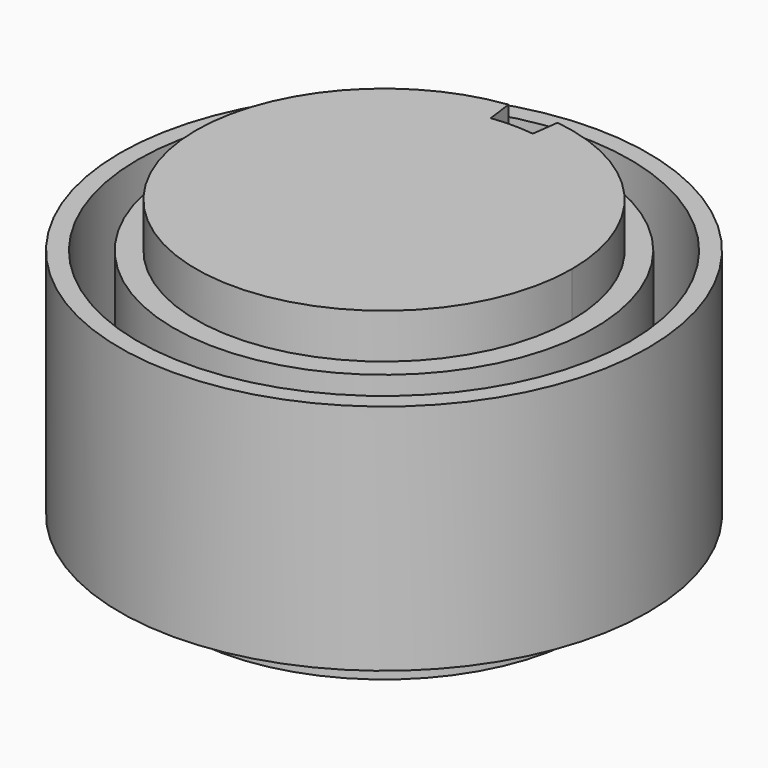
from build123d import *

# Parameters (mm, degrees)
F0_R      = 22.5
F0_R_2    = 22
F0_R_3    = 20.5
F1_DEPTH  = 1
F2_START  = 1
F0_R_4    = 15
F2_DEPTH  = 2.5
F3_START  = 3.5
F3_DEPTH  = 1
F4_START  = 4.5
F0_R_5    = 29.5
F0_R_6    = 27.5
F4_DEPTH  = 1.5
F5_DEPTH  = 2
F6_START  = 6
F6_DEPTH  = 24.5
F7_R      = 0.5
F10_DEPTH = 25
F11_ANGLE = -90


with BuildPart() as f1:
    # F0 (on Top) → F1 (new body)
    with BuildSketch(Plane.XY):
        Circle(F0_R)
        Circle(F0_R_2, mode=Mode.SUBTRACT)
        Circle(F0_R_2)
        Circle(F0_R_3, mode=Mode.SUBTRACT)
    extrude(amount=F1_DEPTH)

    # F0 (on Top) → F2 (join)
    with BuildSketch(Plane.XY.offset(F2_START)):
        Circle(F0_R_2)
        Circle(F0_R_3, mode=Mode.SUBTRACT)
        Circle(F0_R_3)
        Circle(F0_R_4, mode=Mode.SUBTRACT)
    extrude(amount=F2_DEPTH)

    # F0 (on Top) → F3 (join)
    with BuildSketch(Plane.XY.offset(F3_START)):
        Circle(F0_R)
        Circle(F0_R_2, mode=Mode.SUBTRACT)
        Circle(F0_R_2)
        Circle(F0_R_3, mode=Mode.SUBTRACT)
    extrude(amount=F3_DEPTH)

    # F0 (on Top) → F4 (join)
    with BuildSketch(Plane.XY.offset(F4_START)):
        Circle(F0_R_5)
        Circle(F0_R_6, mode=Mode.SUBTRACT)
        Circle(F0_R_6)
        Circle(F0_R, mode=Mode.SUBTRACT)
        Circle(F0_R)
        Circle(F0_R_2, mode=Mode.SUBTRACT)
        Circle(F0_R_2)
        Circle(F0_R_3, mode=Mode.SUBTRACT)
    extrude(amount=F4_DEPTH)

    # F0 (on Top) → F5 (join)
    with BuildSketch(Plane.XY):
        Circle(F0_R_4)
        with BuildLine():
            ThreePointArc((-9.2351334065, 8.4239130435), (-8.9001091605, 8.6648532788), (-8.496322734, 8.75))
            Line((-8.496322734, 8.75), (8.496322734, 8.75))
            ThreePointArc((8.496322734, 8.75), (8.9001091605, 8.6648532788), (9.2351334065, 8.4239130435))
            ThreePointArc((9.2351334065, 8.4239130435), (12.5, 0), (9.2351334065, -8.4239130435))
            ThreePointArc((9.2351334065, -8.4239130435), (8.9001091605, -8.6648532788), (8.496322734, -8.75))
            Line((8.496322734, -8.75), (-8.496322734, -8.75))
            ThreePointArc((-8.496322734, -8.75), (-8.9001091605, -8.6648532788), (-9.2351334065, -8.4239130435))
            ThreePointArc((-9.2351334065, -8.4239130435), (-12.5, 0), (-9.2351334065, 8.4239130435))
        make_face(mode=Mode.SUBTRACT)
    extrude(amount=F5_DEPTH)

    # F0 (on Top) → F6 (join)
    with BuildSketch(Plane.XY.offset(F6_START)):
        Circle(F0_R_5)
        Circle(F0_R_6, mode=Mode.SUBTRACT)
    extrude(amount=F6_DEPTH)

    # F7
    f7_edges = [f1.edges().sort_by_distance(p)[0] for p in [
        (-15, 0, 3.5),
    ]]
    fillet(f7_edges, radius=F7_R)


with BuildPart() as f9:
    # F8 (on Top) → F9 (revolve)
    with BuildSketch(Plane.XY):
        Polygon((-21, 0), (-23.5, 0), (-23.5, -2), (-22.5, -2), (-22.5, -4), (-23.5, -4), (-23.5, -20), (-21, -20), align=None)
    revolve(axis=Axis((0, -7.9863984138, 0), (0, 1, 0)))


with BuildPart() as f10:
    # F8 (on Top) → F10 (new body)
    with BuildSketch(Plane.XY):
        with BuildLine():
            ThreePointArc((-2.7410500366, 20.8203420888), (-15.7886359571, 13.8462621171), (-21, 0))
            Line((-21, 0), (-18, 0))
            ThreePointArc((-18, 0), (-13.5331165346, 11.8682246718), (-2.34947146, 17.8460075047))
            Line((-2.34947146, 17.8460075047), (-2.7410500366, 20.8203420889))
        make_face()
        with BuildLine():
            ThreePointArc((-2.34947146, 17.8460075047), (-13.5331165346, 11.8682246718), (-18, 0))
            Line((-18, 0), (0, 0))
            Line((0, 0), (-2.34947146, 17.8460075047))
        make_face()
        with BuildLine():
            Line((2.34947146, 17.8460075047), (0, 0))
            Line((0, 0), (18, 0))
            ThreePointArc((18, 0), (13.5331165346, 11.8682246718), (2.34947146, 17.8460075047))
        make_face()
        with BuildLine():
            ThreePointArc((2.34947146, 17.8460075047), (13.5331165346, 11.8682246718), (18, 0))
            Line((18, 0), (21, 0))
            ThreePointArc((21, 0), (15.7886359571, 13.8462621171), (2.7410500366, 20.8203420888))
            Line((2.7410500366, 20.8203420889), (2.34947146, 17.8460075047))
        make_face()
        with BuildLine():
            Line((-2.34947146, 17.8460075047), (0, 0))
            Line((0, 0), (2.34947146, 17.8460075047))
            ThreePointArc((2.34947146, 17.8460075047), (0, 18), (-2.34947146, 17.8460075047))
        make_face()
        with BuildLine():
            Line((0, 0), (-18, 0))
            ThreePointArc((-18, 0), (0, -18), (18, 0))
            Line((18, 0), (0, 0))
        make_face()
        with BuildLine():
            Line((-18, 0), (-21, 0))
            ThreePointArc((-21, 0), (-16.9626885986, -12.3801129036), (-6.4031242374, -20))
            Line((-6.4031242374, -20), (6.4031242374, -20))
            ThreePointArc((6.4031242374, -20), (16.9626885986, -12.3801129036), (21, 0))
            Line((21, 0), (18, 0))
            ThreePointArc((18, 0), (0, -18), (-18, 0))
        make_face()
        with BuildLine():
            Line((6.4031242374, -20), (-6.4031242374, -20))
            ThreePointArc((-6.4031242374, -20), (0, -21), (6.4031242374, -20))
        make_face()
    extrude(amount=F10_DEPTH)


with BuildPart() as f9_1:
    # F11: moved
    add(f9.part.rotate(Axis((0, 0, 0), (1, 0, 0)), F11_ANGLE))


with BuildPart() as f9_2:
    # F12: moved
    add(f9_1.part.moved(Location((0, 0, 10.5))))


with BuildPart() as f10_1:
    # F12: moved
    add(f10.part.moved(Location((0, 0, 10.5))))


solid = Compound([f1.part, f9_2.part, f10_1.part])
